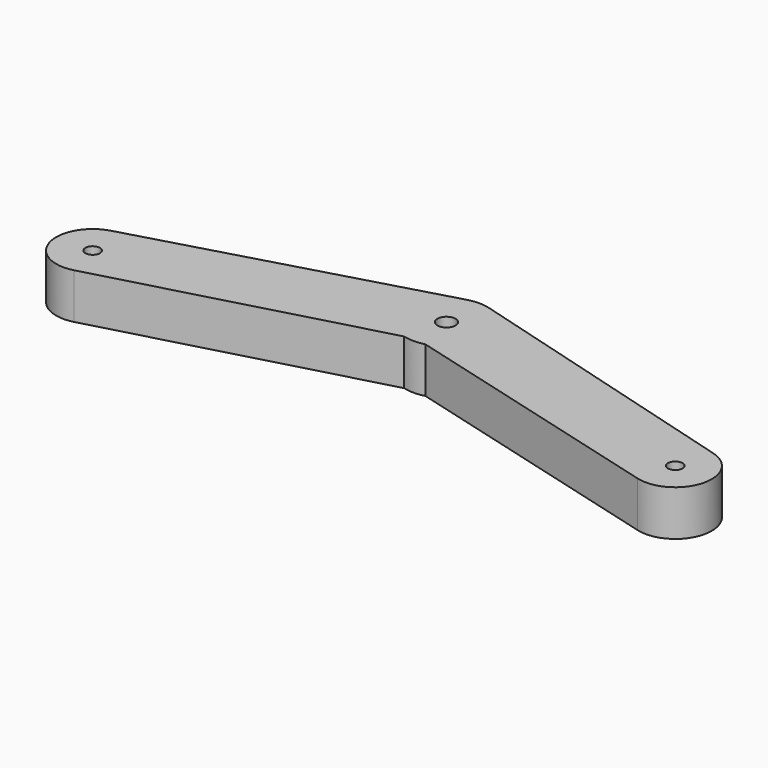
from build123d import *

# Parameters (mm, degrees)
F0_R     = 4
F0_R_2   = 5
F1_DEPTH = 25


with BuildPart() as f1:
    # F0 (on Top) → F1 (new body)
    with BuildSketch(Plane.XY):
        with BuildLine():
            Line((-6.478907, 64.423181), (-165.176381, 19.318517))
            ThreePointArc((-165.176381, 19.318517), (-179.318517, -5.176381), (-154.823619, -19.318517))
            ThreePointArc((-154.823619, -19.318517), (-154.759725, -19.301283), (-154.695889, -19.283838))
            Line((-154.695889, -19.283838), (-5.824494, 21.134565))
            ThreePointArc((-5.824494, 21.134565), (0, 20.367755), (5.824494, 21.134565))
            Line((5.824494, 21.134565), (154.695889, -19.283838))
            ThreePointArc((154.695889, -19.283838), (154.759725, -19.301283), (154.823619, -19.318517))
            ThreePointArc((154.823619, -19.318517), (179.318517, -5.176381), (165.176381, 19.318517))
            Line((165.176381, 19.318517), (6.478907, 64.423181))
            Line((6.478907, 64.423181), (5.824494, 64.609177))
            ThreePointArc((5.824494, 64.609177), (0, 65.375986), (-5.824494, 64.609177))
            Line((-5.824494, 64.609177), (-6.478907, 64.423181))
        make_face()
        with Locations((-160, 0)):
            Circle(F0_R, mode=Mode.SUBTRACT)
        with Locations((160, 0)):
            Circle(F0_R, mode=Mode.SUBTRACT)
        with Locations((0, 42.871871)):
            Circle(F0_R_2, mode=Mode.SUBTRACT)
    extrude(amount=F1_DEPTH)


solid = f1.part
